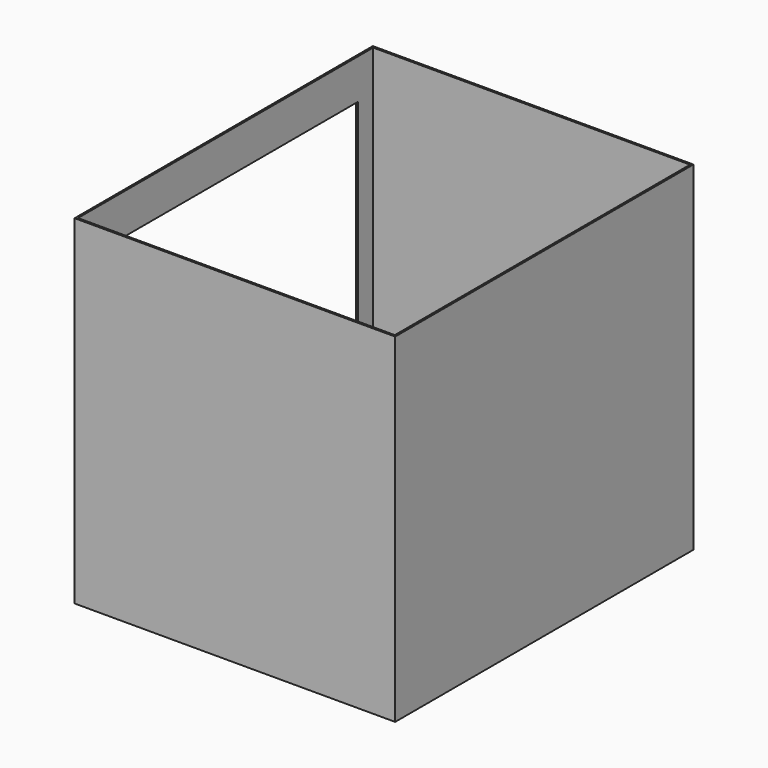
from build123d import *

# Parameters (mm, degrees)
F0_W     = 344
F0_H     = 364
F1_DEPTH = 400
F2_T     = -2
F4_START = -25
F4_DEPTH = 319.001


with BuildPart() as f1:
    # F0 (on Front) → F1 (new body)
    with BuildSketch(Plane.XZ):
        with Locations((172, -182)):
            Rectangle(F0_W, F0_H)
    extrude(amount=F1_DEPTH)

    # F2
    f2_openings = [f1.faces().sort_by_distance(p)[0] for p in [
        (172, -200, 0),
    ]]
    offset(amount=F2_T, openings=f2_openings)

    # F3 (on face) → F4 (cut)
    with BuildSketch(Plane.YZ.offset(344).offset(F4_START)):
        with BuildLine():
            Line((-380.2282512188, -42.8705103695), (-380.2282512188, -279.8911333084))
            add(Edge.make_bspline(
                [(-380.2282512188, -279.8911333084), (-335.3109516688, -297.4034551854), (-244.5381641795, -332.7938791003), (-101.0842446911, -244.1373138208), (-46.4290637673, -287.7654343562), (-22.6302593946, -306.7626655102)],
                knots=[0, 0, 0, 0, 0.3560906868, 0.7196190458, 1, 1, 1, 1], degree=3))
            Line((-22.6302593946, -306.7626655102), (-22.6302593946, -42.8705103695))
            Line((-22.6302593946, -42.8705103695), (-380.2282512188, -42.8705103695))
        make_face()
    extrude(amount=-F4_DEPTH, mode=Mode.SUBTRACT)


solid = f1.part
